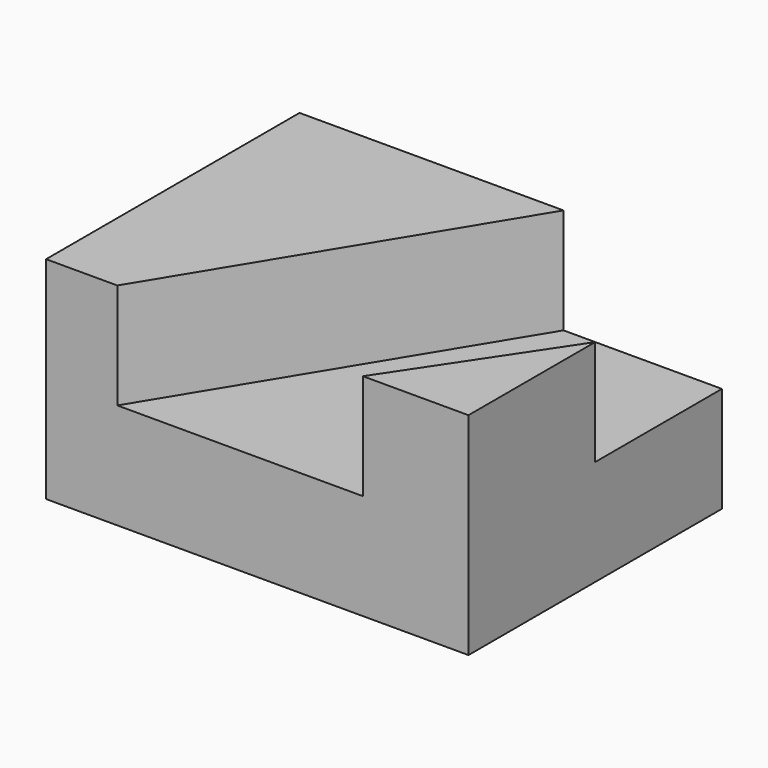
from build123d import *

# Parameters (mm, degrees)
F0_W     = 50.8
F0_H     = 38.1
F1_DEPTH = 25.4
F3_DEPTH = 12.7


with BuildPart() as f1:
    # F0 (on Top) → F1 (new body)
    with BuildSketch(Plane.XY):
        with Locations((25.4, 19.05)):
            Rectangle(F0_W, F0_H)
    extrude(amount=F1_DEPTH)

    # F2 (on face) → F3 (cut)
    with BuildSketch(Plane.XY.offset(25.4)):
        Polygon((31.75, 38.1), (8.565547, 0), (38.1, 0), (50.8, 19.05), (50.8, 38.1), align=None)
    extrude(amount=-F3_DEPTH, mode=Mode.SUBTRACT)


solid = f1.part
